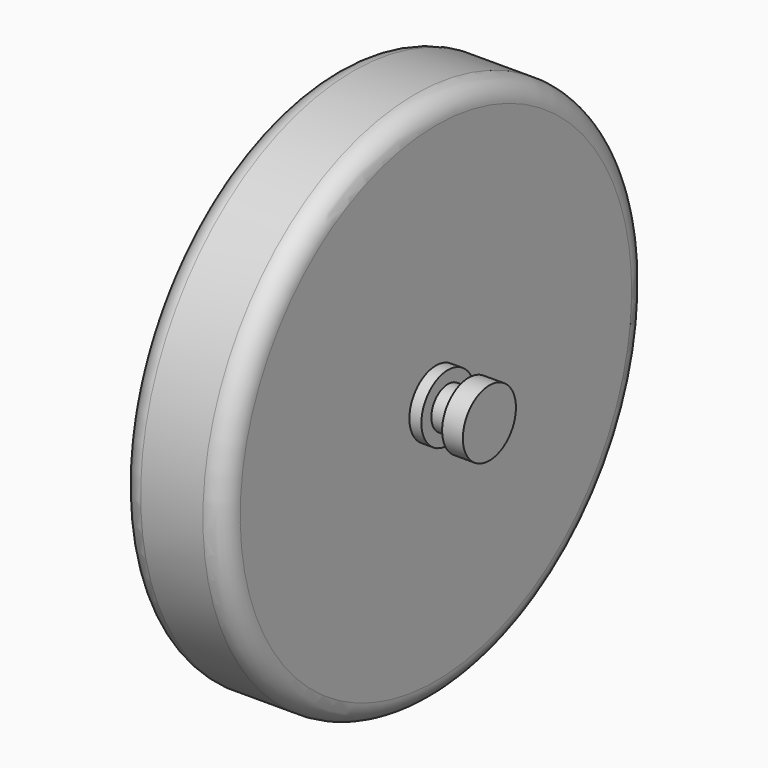
from build123d import *


with BuildPart() as f1:
    # F0 (on Front) → F1 (revolve)
    with BuildSketch(Plane.XZ):
        with BuildLine():
            Line((-20.4, 8), (-25.4, 8))
            Line((-25.4, 8), (-25.4, 0))
            Line((-25.4, 0), (-12.5, 0))
            Line((-12.5, 0), (12.5, 0))
            Line((12.5, 0), (25.4, 0))
            Line((25.4, 0), (25.4, 8))
            Line((25.4, 8), (20.4, 8))
            Line((20.4, 8), (20.4, 5))
            Line((20.4, 5), (15.4, 5))
            Line((15.4, 5), (15.4, 8))
            Line((15.4, 8), (12.5, 8))
            Line((12.5, 8), (12.5, 59))
            ThreePointArc((12.5, 59), (11.035534, 62.535534), (7.5, 64))
            Line((7.5, 64), (-7.5, 64))
            ThreePointArc((-7.5, 64), (-11.035534, 62.535534), (-12.5, 59))
            Line((-12.5, 59), (-12.5, 8))
            Line((-12.5, 8), (-15.4, 8))
            Line((-15.4, 8), (-15.4, 5))
            Line((-15.4, 5), (-20.4, 5))
            Line((-20.4, 5), (-20.4, 8))
        make_face()
    revolve(axis=Axis((-6.764503, 0, 0), (1, 0, 0)))


solid = f1.part
